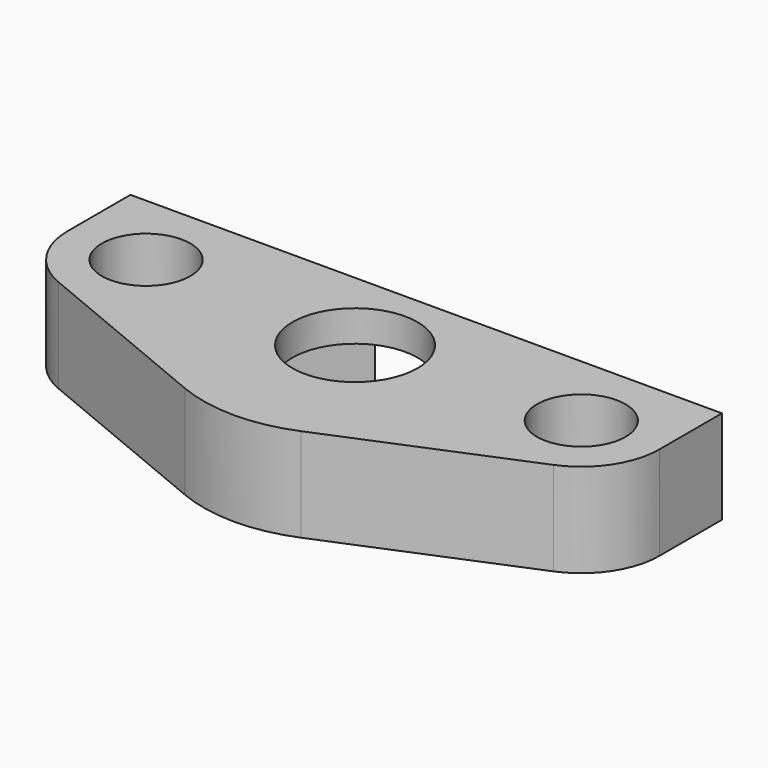
from build123d import *

# Parameters (mm, degrees)
F0_R     = 2.2479
F1_DEPTH = 3.175
F2_R     = 3.175
F2_R_2   = 2.2479
F3_DEPTH = 1.5875


with BuildPart() as f1:
    # F0 (on Top) → F1 (new body)
    with BuildSketch(Plane.XY):
        with BuildLine():
            Line((12.411735532, 0), (0, 0))
            Line((0, 0), (0, -3.96875))
            ThreePointArc((0, -3.96875), (0.6681144589, -6.1725606968), (2.4475119811, -7.6343756563))
            Line((2.4475119811, -7.6343756563), (12.0719608341, -11.6285307826))
            ThreePointArc((12.0719608341, -11.6285307826), (15.021736278, -12.2163078), (17.971511722, -11.6285307826))
            Line((17.971511722, -11.6285307826), (27.595960575, -7.6343756563))
            ThreePointArc((27.595960575, -7.6343756563), (29.3753580972, -6.1725606968), (30.0434725561, -3.96875))
            Line((30.0434725561, -3.96875), (30.0434725561, 0))
            Line((30.0434725561, 0), (17.6317370241, 0))
            Line((17.6317370241, 0), (20.2417377702, -4.5206539))
            Line((20.2417377702, -4.5206539), (17.6317370241, -9.0413078))
            Line((17.6317370241, -9.0413078), (12.411735532, -9.0413078))
            Line((12.411735532, -9.0413078), (9.8017347859, -4.5206539))
            Line((9.8017347859, -4.5206539), (12.411735532, 0))
        make_face()
        with Locations((3.96875, -3.96875)):
            Circle(F0_R, mode=Mode.SUBTRACT)
        with Locations((26.0747225561, -3.96875)):
            Circle(F0_R, mode=Mode.SUBTRACT)
    extrude(amount=F1_DEPTH)

    # F2 (on face) → F3 (join)
    with BuildSketch(Plane.XY.offset(3.175)):
        Polygon((20.2417377702, -4.5206539), (17.6317370241, 0), (12.411735532, 0), (9.8017347859, -4.5206539), (12.411735532, -9.0413078), (17.6317370241, -9.0413078), align=None)
        with Locations((15.021736278, -4.5206539)):
            Circle(F2_R, mode=Mode.SUBTRACT)
        with BuildLine():
            Line((30.0434725561, 0), (17.6317370241, 0))
            Line((17.6317370241, 0), (20.2417377702, -4.5206539))
            Line((20.2417377702, -4.5206539), (17.6317370241, -9.0413078))
            Line((17.6317370241, -9.0413078), (12.411735532, -9.0413078))
            Line((12.411735532, -9.0413078), (9.8017347859, -4.5206539))
            Line((9.8017347859, -4.5206539), (12.411735532, 0))
            Line((12.411735532, 0), (0, 0))
            Line((0, 0), (0, -3.96875))
            ThreePointArc((0, -3.96875), (0.6681144589, -6.1725606968), (2.4475119811, -7.6343756563))
            Line((2.4475119811, -7.6343756563), (12.0719608341, -11.6285307826))
            ThreePointArc((12.0719608341, -11.6285307826), (15.021736278, -12.2163078), (17.971511722, -11.6285307826))
            Line((17.971511722, -11.6285307826), (27.595960575, -7.6343756563))
            ThreePointArc((27.595960575, -7.6343756563), (29.3753580972, -6.1725606968), (30.0434725561, -3.96875))
            Line((30.0434725561, -3.96875), (30.0434725561, 0))
        make_face()
        with Locations((3.96875, -3.96875)):
            Circle(F2_R_2, mode=Mode.SUBTRACT)
        with Locations((26.0747225561, -3.96875)):
            Circle(F2_R_2, mode=Mode.SUBTRACT)
    extrude(amount=F3_DEPTH)


solid = f1.part
